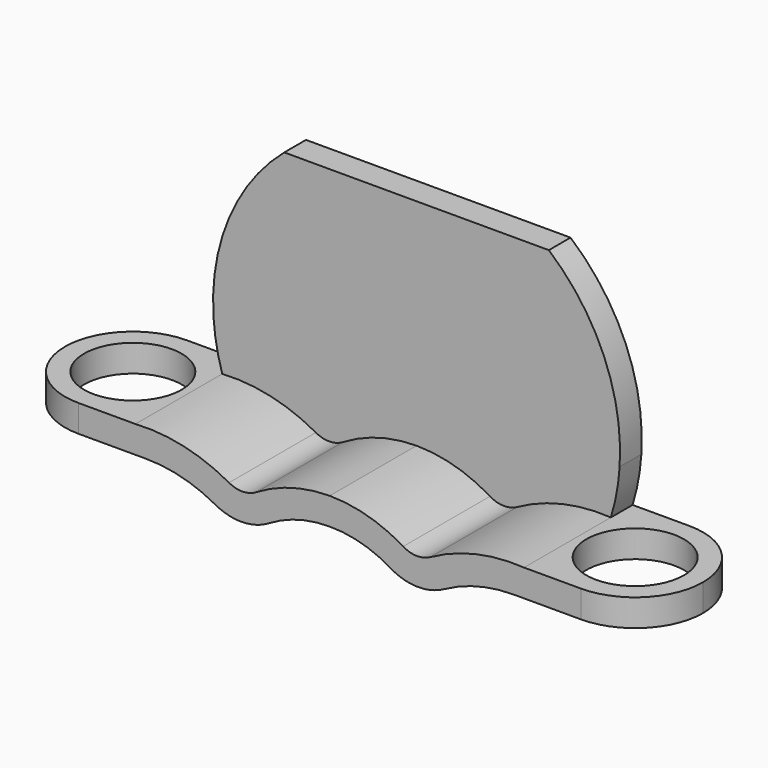
from build123d import *

# Parameters (mm, degrees)
F1_DEPTH = 2.54
F2_DEPTH = 12.7
F3_R     = 5.08
F5_DEPTH = 25.4
F7_R     = 2.54


with BuildPart() as f1:
    # F0 (on Front) → F1 (new body)
    with BuildSketch(Plane.XZ):
        with BuildLine():
            Line((12.3829699, 14.4763447201), (-12.3829699, 14.4763447201))
            ThreePointArc((-12.3829699, 14.4763447201), (-17.5494163181, 7.4108357757), (-19.0109455672, -1.2192))
            ThreePointArc((-19.0109455672, -1.2192), (-18.7320588508, -3.4659012121), (-18.1886103823, -5.6636518574))
            ThreePointArc((-18.1886103823, -5.6636518574), (-12.9594922672, -6.2044133907), (-8.1898528707, -8.414987824))
            ThreePointArc((-8.1898528707, -8.414987824), (-0.0244050051, -5.6637208939), (8.1261735346, -8.4587303814))
            ThreePointArc((8.1261735346, -8.4587303814), (12.9222610069, -6.2147067253), (18.1886103823, -5.6636518574))
            ThreePointArc((18.1886103823, -5.6636518574), (18.7320588508, -3.4659012121), (19.0109455672, -1.2192))
            ThreePointArc((19.0109455672, -1.2192), (17.5494163181, 7.4108357757), (12.3829699, 14.4763447201))
        make_face()
    extrude(amount=F1_DEPTH)

    # F0 (on Front) → F2 (join)
    with BuildSketch(Plane.XZ):
        with BuildLine():
            ThreePointArc((-8.1898528707, -8.414987824), (-12.9594922672, -6.2044133907), (-18.1886103823, -5.6636518574))
            Line((-18.1886103823, -5.6636518574), (-29.86024, -5.6636518574))
            Line((-29.86024, -5.6636518574), (-29.86024, -8.2036518574))
            Line((-29.86024, -8.2036518574), (-17.1930973418, -8.2036518574))
            ThreePointArc((-17.1930973418, -8.2036518574), (-12.3090033163, -9.1264565308), (-8.0982998954, -11.7676531566))
            ThreePointArc((-8.0982998954, -11.7676531566), (-0.0191744615, -8.2037507277), (8.0326972664, -11.8288065861))
            ThreePointArc((8.0326972664, -11.8288065861), (12.2672793977, -9.1428876591), (17.1930973418, -8.2036518574))
            Line((17.1930973418, -8.2036518574), (29.86024, -8.2036518574))
            Line((29.86024, -8.2036518574), (29.86024, -5.6636518574))
            Line((29.86024, -5.6636518574), (18.1886103823, -5.6636518574))
            ThreePointArc((18.1886103823, -5.6636518574), (12.9222610069, -6.2147067253), (8.1261735346, -8.4587303814))
            ThreePointArc((8.1261735346, -8.4587303814), (-0.0244050051, -5.6637208939), (-8.1898528707, -8.414987824))
        make_face()
    extrude(amount=F2_DEPTH)

    # F3
    f3_edges = [f1.edges().sort_by_distance(p)[0] for p in [
        (-8.0983, -6.35, -11.767653),
        (8.032697, -6.35, -11.828807),
    ]]
    fillet(f3_edges, radius=F3_R)

    # F4 (on face) → F5 (cut)
    with BuildSketch(Plane.XY.offset(-5.6636518574)):
        with BuildLine():
            ThreePointArc((-18.93824, -6.35), (-23.51024, -1.778), (-28.08224, -6.35))
            ThreePointArc((-28.08224, -6.35), (-23.51024, -10.922), (-18.93824, -6.35))
        make_face()
        with BuildLine():
            Line((-29.86024, 0), (-29.86024, -6.35))
            ThreePointArc((-29.86024, -6.35), (-28.0003680605, -1.8598719395), (-23.51024, 0))
            Line((-23.51024, 0), (-29.86024, 0))
        make_face()
        with BuildLine():
            ThreePointArc((-23.51024, -12.7), (-28.0003680605, -10.8401280605), (-29.86024, -6.35))
            Line((-29.86024, -6.35), (-29.86024, -12.7))
            Line((-29.86024, -12.7), (-23.51024, -12.7))
        make_face()
    extrude(amount=-F5_DEPTH, mode=Mode.SUBTRACT)

    # F6: F1 across plane


with BuildPart() as f1_1:
    add(f1.part)
    add(f1.part.mirror(Plane.YZ), mode=Mode.INTERSECT)

    # F7
    f7_edges = [f1_1.edges().sort_by_distance(p)[0] for p in [
        (-8.126174, -7.62, -8.45873),
        (8.126174, -7.62, -8.45873),
    ]]
    fillet(f7_edges, radius=F7_R)


solid = f1_1.part
